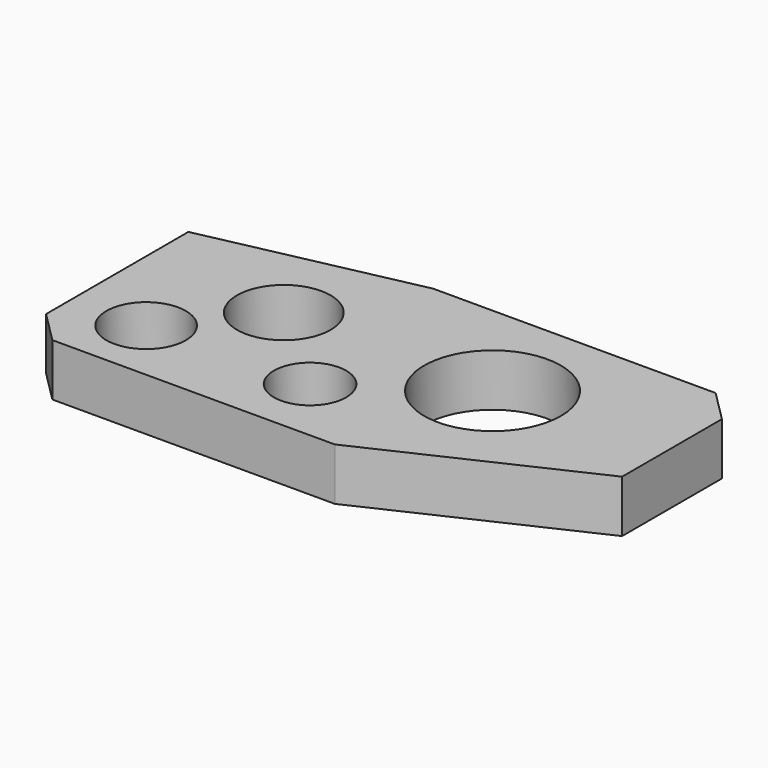
from build123d import *

# Parameters (mm, degrees)
PAD_DEPTH       = 5
CHAMFER_SIZE    = 3
CHAMFER001_SIZE = 3
SKETCH001_R     = 4.474248
SKETCH001_R_2   = 6.533879
SKETCH001_R_3   = 3.458444
SKETCH001_R_4   = 3.797006
POCKET_DEPTH    = 5.001


with BuildPart() as part:
    # Sketch → Pad (new body)
    with BuildSketch(Plane.XY):
        Polygon((0, 0), (30, 0), (50, 9.326153), (50, 24.251131), (20, 24.251131), (0, 20), align=None)
    extrude(amount=PAD_DEPTH)

    # Chamfer
    chamfer_edges = [part.edges().sort_by_distance(p)[0] for p in [
        (0, 0, 2.5),
    ]]
    chamfer(chamfer_edges, length=CHAMFER_SIZE)

    # Chamfer001
    chamfer001_edges = [part.edges().sort_by_distance(p)[0] for p in [
        (50, 24.251131, 2.5),
    ]]
    chamfer(chamfer001_edges, length=CHAMFER001_SIZE)

    # Sketch001 (on Face10 of Chamfer001) → Pocket (cut, through all)
    with BuildSketch(Plane.XY.offset(5)):
        with Locations((13.710362, 14.266204)):
            Circle(SKETCH001_R)
        with Locations((33.767467, 14.130686)):
            Circle(SKETCH001_R_2)
        with Locations((22.451464, 6.473749)):
            Circle(SKETCH001_R_3)
        with Locations((7.002075, 6.202708)):
            Circle(SKETCH001_R_4)
    extrude(amount=-POCKET_DEPTH, mode=Mode.SUBTRACT)


solid = part.part
